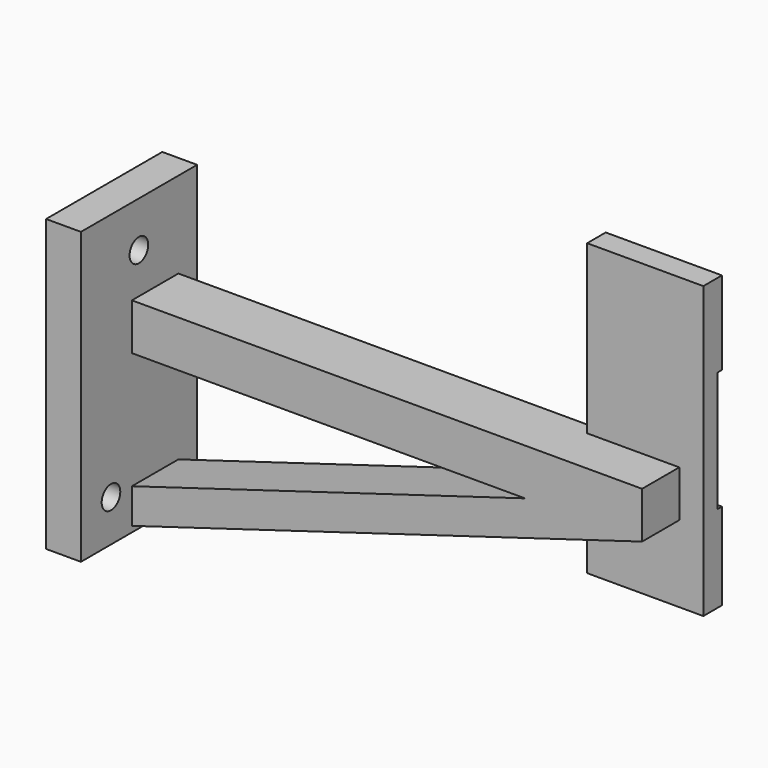
from build123d import *

# Parameters (mm, degrees)
F0_W      = 25
F0_H      = 50
F0_R      = 2
F1_DEPTH  = 6
F4_DEPTH  = 10
F6_W      = 20
F6_H      = 50
F7_DEPTH  = 4
F9_W      = 30
F9_H      = 20.7
F10_DEPTH = 1


with BuildPart() as f1:
    # F0 (on Right) → F1 (new body)
    with BuildSketch(Plane.YZ):
        with Locations((6.035548, 17.82273)):
            Rectangle(F0_W, F0_H)
        Circle(F0_R, mode=Mode.SUBTRACT)
        with Locations((6, 35)):
            Circle(F0_R, mode=Mode.SUBTRACT)
    extrude(amount=F1_DEPTH)

    # F3 (on offset) → F4 (join)
    with BuildSketch(Plane.XZ.offset(-14.5)):
        Polygon((93.818079, 27.991471), (3.818079, 27.991471), (3.818079, 19.991471), (73.668075, 19.991471), (93.818079, 19.991471), align=None)
        Polygon((4.434382, -6.643867), (93.818079, 19.991471), (73.668075, 19.991471), (4.434382, -0.639392), align=None)
    extrude(amount=F4_DEPTH)

    # F6 (on offset) → F7 (join)
    with BuildSketch(Plane.XZ.offset(-12.5)):
        with Locations((87.958595, 31.800688)):
            Rectangle(F6_W, F6_H)
    extrude(amount=-F7_DEPTH)

    # F9 (on offset) → F10 (cut)
    with BuildSketch(Plane.XZ.offset(-16.5)):
        with Locations((87.881114, 32.116146)):
            Rectangle(F9_W, F9_H)
    extrude(amount=F10_DEPTH, mode=Mode.SUBTRACT)


solid = f1.part
